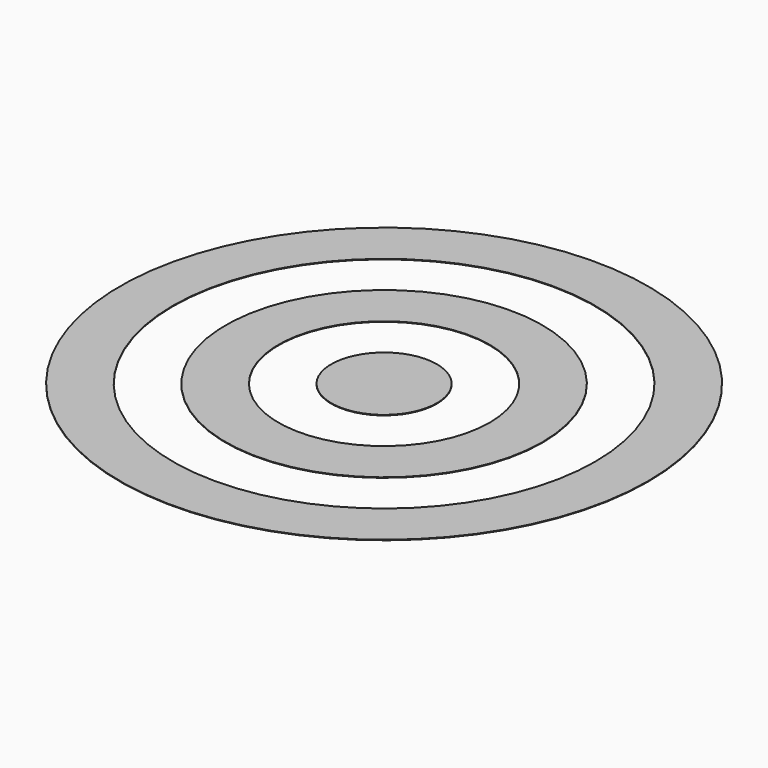
from build123d import *

# Parameters (mm, degrees)
F0_R     = 500
F0_R_2   = 400
F1_DEPTH = 1
F2_R     = 300
F2_R_2   = 200
F3_DEPTH = 1
F4_R     = 100
F5_DEPTH = 1


with BuildPart() as f1:
    # F0 (on Top) → F1 (new body)
    with BuildSketch(Plane.XY):
        Circle(F0_R)
        Circle(F0_R_2, mode=Mode.SUBTRACT)
    extrude(amount=F1_DEPTH)


with BuildPart() as f3:
    # F2 (on Top) → F3 (new body)
    with BuildSketch(Plane.XY):
        Circle(F2_R)
        Circle(F2_R_2, mode=Mode.SUBTRACT)
    extrude(amount=F3_DEPTH)


with BuildPart() as f5:
    # F4 (on Top) → F5 (new body)
    with BuildSketch(Plane.XY):
        Circle(F4_R)
    extrude(amount=F5_DEPTH)


solid = Compound([f1.part, f3.part, f5.part])
